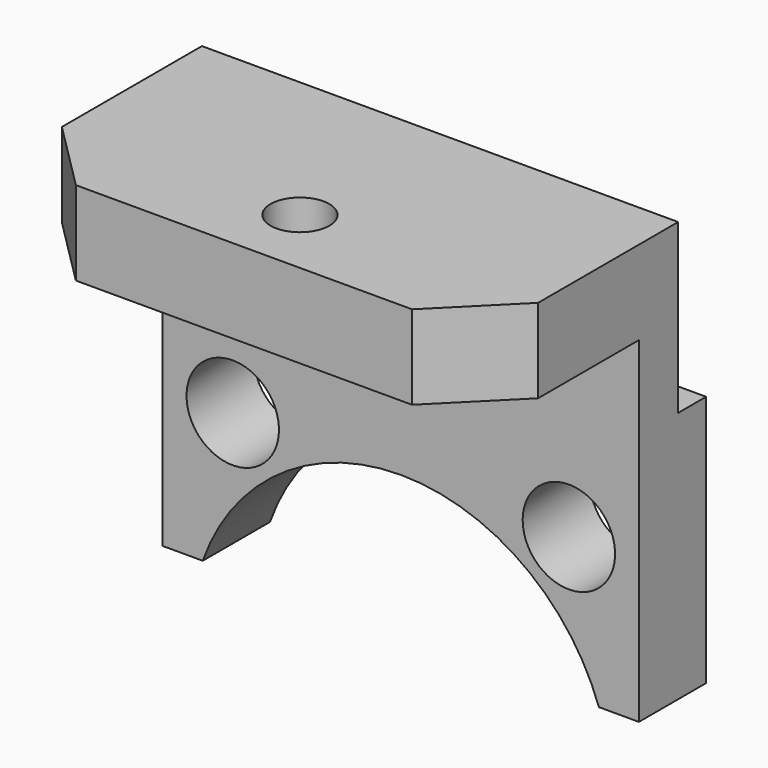
from build123d import *

# Parameters (mm, degrees)
F0_W      = 34
F0_H      = 30
F1_DEPTH  = 20
F2_W      = 34
F2_H      = 24
F3_DEPTH  = 14
F5_D      = 4.2
F5_DEPTH  = 20
F5_TIP    = 1.2618073
F6_SIZE   = 5
F8_DEPTH  = 25
F9_D      = 6.6
F9_DEPTH  = 20
F9_TIP    = 1.9828400428
F10_W     = 34
F10_H     = 12
F11_DEPTH = 2.5


with BuildPart() as f1:
    # F0 (on Front) → F1 (new body)
    with BuildSketch(Plane.XZ):
        with Locations((17, 15)):
            Rectangle(F0_W, F0_H)
    extrude(amount=F1_DEPTH)

    # F2 (on face) → F3 (cut)
    with BuildSketch(Plane.XZ.offset(20)):
        with Locations((17, 12)):
            Rectangle(F2_W, F2_H)
    extrude(amount=-F3_DEPTH, mode=Mode.SUBTRACT)

    # F5
    with Locations(Plane(origin=(0, 0, 24), x_dir=(1, 0, 0), z_dir=(0, 0, -1))):
        with Locations((17, 15)):
            Hole(F5_D / 2, depth=F5_DEPTH)
            with Locations((0, 0, -(F5_DEPTH + F5_TIP / 2))):  # 118° drill point
                Cone(0, F5_D / 2, F5_TIP, mode=Mode.SUBTRACT)

    # F6
    f6_edges = [f1.edges().sort_by_distance(p)[0] for p in [
        (34, -20, 27),
        (0, -20, 27),
    ]]
    chamfer(f6_edges, length=F6_SIZE)

    # F7 (on face) → F8 (cut)
    with BuildSketch(Plane.XZ.offset(6)):
        with BuildLine():
            ThreePointArc((2.8578643763, 0), (14.4634703191, -19.7839783948), (32, -5))
            ThreePointArc((32, -5), (31.7839783948, -2.4634703191), (31.1421356237, 0))
            Line((31.1421356237, 0), (2.8578643763, 0))
        make_face()
        with BuildLine():
            Line((2.8578643763, 0), (31.1421356237, 0))
            ThreePointArc((31.1421356237, 0), (17, 10), (2.8578643763, 0))
        make_face()
    extrude(amount=-F8_DEPTH, mode=Mode.SUBTRACT)

    # F9
    with Locations(Plane.XZ.offset(6)):
        with Locations((5, 10), (29, 10)):
            Hole(F9_D / 2, depth=F9_DEPTH)
            with Locations((0, 0, -(F9_DEPTH + F9_TIP / 2))):  # 118° drill point
                Cone(0, F9_D / 2, F9_TIP, mode=Mode.SUBTRACT)

    # F10 (on face) → F11 (cut)
    with BuildSketch(Plane(origin=(0, 0, 0), x_dir=(-1, 0, 0), z_dir=(0, 1, 0))):
        with Locations((-17, 24)):
            Rectangle(F10_W, F10_H)
    extrude(amount=-F11_DEPTH, mode=Mode.SUBTRACT)


solid = f1.part
